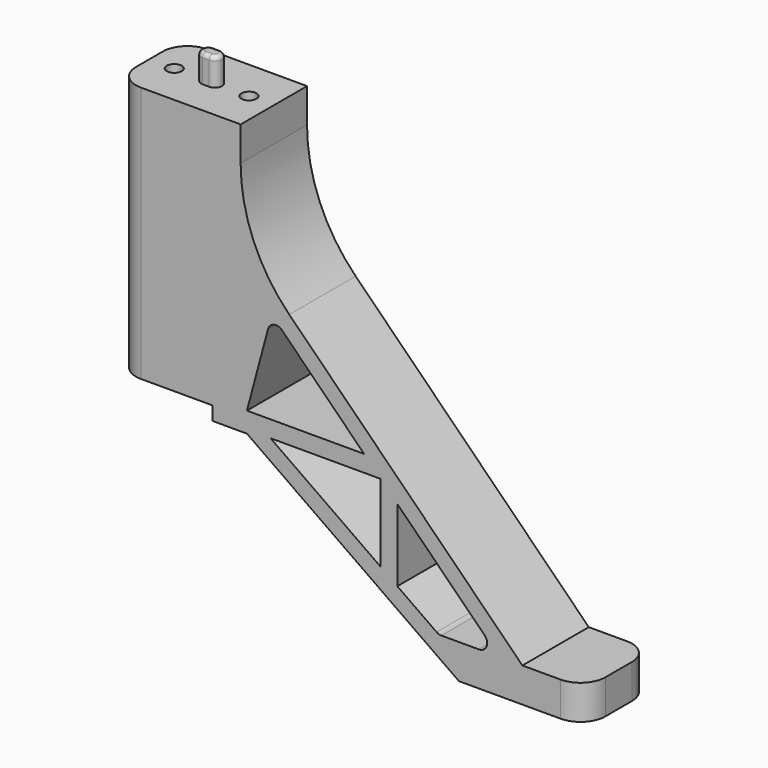
from build123d import *

# Parameters (mm, degrees)
F1_DEPTH = 5
F2_R     = 0.9
F3_DEPTH = 50.492125497
F4_DEPTH = 13
F6_DEPTH = 3.3
F8_DEPTH = 1.65
F9_R     = 0.5
F10_R    = 3
F11_R    = 20


with BuildPart() as f1:
    # F0 (on Front) → F1 (new body, symmetric)
    with BuildSketch(Plane.XZ):
        Polygon((15, 30.9), (0, 30.9), (0, 0), (11.6, 0), (11.6, -1.65), (15.76, -1.65), (41.291125497, -19.591125497), (56.541125497, -19.591125497), (56.541125497, -15.441125497), (48.941125497, -15.441125497), (15, 18.5), align=None)
        Polygon((31.8771428741, -10.5313410853), (18.6061007646, -1.2055699989), (31.8771428741, -1.2055699989), align=None, mode=Mode.SUBTRACT)
        with BuildLine():
            Line((33.8771428741, -11.9367727024), (33.8771428741, -3.2055699989))
            Line((33.8771428741, -3.2055699989), (44.405591591, -13.7340187158))
            ThreePointArc((44.405591591, -13.7340187158), (44.6223643423, -14.8238089293), (43.6984848098, -15.441125497))
            Line((43.6984848098, -15.441125497), (39.1802365995, -15.441125497))
            ThreePointArc((39.1802365995, -15.441125497), (38.8787292634, -15.3945893538), (38.6052839044, -15.2593121495))
            Line((38.6052839044, -15.2593121495), (33.8771428741, -11.9367727024))
        make_face(mode=Mode.SUBTRACT)
        with BuildLine():
            Line((29.8771428741, 0.7944300011), (15.76, 0.7944300011))
            Line((15.76, 0.7944300011), (18.2950155817, 10.25523695))
            ThreePointArc((18.2950155817, 10.25523695), (19.0021223629, 10.9623437312), (19.9680481892, 10.7035246861))
            Line((19.9680481892, 10.7035246861), (29.8771428741, 0.7944300011))
        make_face(mode=Mode.SUBTRACT)
    extrude(amount=F1_DEPTH, both=True)

    # F2 (on face) → F3 (cut, through all)
    with BuildSketch(Plane.XY.offset(30.9)):
        with Locations((3, 0)):
            Circle(F2_R)
    extrude(amount=-F3_DEPTH, mode=Mode.SUBTRACT)

    # F2 (on face) → F4 (cut)
    with BuildSketch(Plane.XY.offset(30.9)):
        with Locations((12, 0)):
            Circle(F2_R)
    extrude(amount=-F4_DEPTH, mode=Mode.SUBTRACT)

    # F5 (on face) → F6 (join)
    with BuildSketch(Plane.XY.offset(30.9)):
        with BuildLine():
            Line((7.89, 0.86), (7.11, 0.86))
            ThreePointArc((7.11, 0.86), (6.25, 0), (7.11, -0.86))
            Line((7.11, -0.86), (7.89, -0.86))
            ThreePointArc((7.89, -0.86), (8.75, 0), (7.89, 0.86))
        make_face()
    extrude(amount=F6_DEPTH)

    # F7 (on face) → F8 (join, through all)
    with BuildSketch(Plane(origin=(0, 0, 0), x_dir=(1, 0, 0), z_dir=(0, 0, -1))):
        with BuildLine():
            Line((8.93, -1.035), (8.93, 1.035))
            ThreePointArc((8.93, 1.035), (7.965, 2), (7, 1.035))
            Line((7, 1.035), (7, -1.035))
            ThreePointArc((7, -1.035), (7.965, -2), (8.93, -1.035))
        make_face()
    extrude(amount=F8_DEPTH)

    # F9
    f9_edges = [f1.edges().sort_by_distance(p)[0] for p in [
        (8.75, 0, 34.2),
        (7.5, 0.86, 34.2),
        (6.25, 0, 34.2),
        (7.5, -0.86, 34.2),
        (8.93, 0, -1.65),
        (7.965, -2, -1.65),
        (7, 0, -1.65),
        (7.965, 2, -1.65),
    ]]
    fillet(f9_edges, radius=F9_R)

    # F10
    f10_edges = [f1.edges().sort_by_distance(p)[0] for p in [
        (0, -5, 15.45),
        (0, 5, 15.45),
        (56.541125, -5, -17.516125),
        (56.541125, 5, -17.516125),
    ]]
    fillet(f10_edges, radius=F10_R)

    # F11
    f11_edges = [f1.edges().sort_by_distance(p)[0] for p in [
        (15, 0, 18.5),
    ]]
    fillet(f11_edges, radius=F11_R)


solid = f1.part
